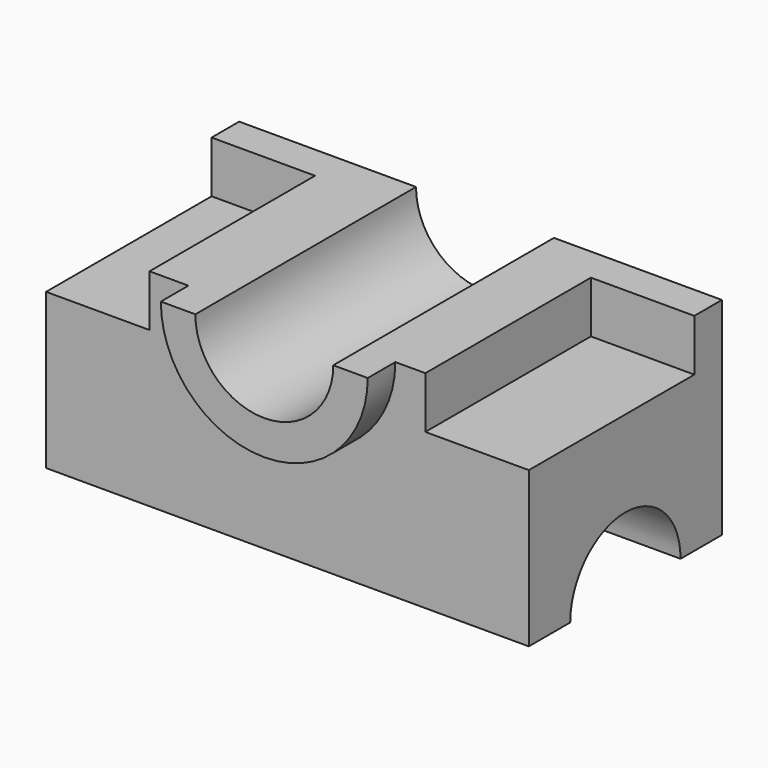
from build123d import *

# Parameters (mm, degrees)
F0_W      = 140
F0_H      = 70
F1_DEPTH  = 60
F3_DEPTH  = 140
F5_DEPTH  = 70
F6_DEPTH  = 10
F7_W      = 30
F7_H      = 60
F8_DEPTH  = 15
F9_W      = 30
F9_H      = 60
F10_DEPTH = 15


with BuildPart() as f1:
    # F0 (on Top) → F1 (new body)
    with BuildSketch(Plane.XY):
        with Locations((-1.2832614383, 11.7256036028)):
            Rectangle(F0_W, F0_H)
    extrude(amount=F1_DEPTH)

    # F2 (on face) → F3 (cut)
    with BuildSketch(Plane.YZ.offset(68.7167385617)):
        with BuildLine():
            Line((-8.2743963972, 0), (31.7256036028, 0))
            ThreePointArc((31.7256036028, 0), (11.7256036028, 20), (-8.2743963972, 0))
        make_face()
    extrude(amount=-F3_DEPTH, mode=Mode.SUBTRACT)

    # F4 (on face) → F5 (cut)
    with BuildSketch(Plane.XZ.offset(23.2743963972)):
        with BuildLine():
            ThreePointArc((-20, 60), (0, 40), (20, 60))
            Line((20, 60), (-20, 60))
        make_face()
    extrude(amount=-F5_DEPTH, mode=Mode.SUBTRACT)

    # F4 (on face) → F6 (join)
    with BuildSketch(Plane.XZ.offset(23.2743963972)):
        with BuildLine():
            Line((30, 60), (20, 60))
            ThreePointArc((20, 60), (0, 40), (-20, 60))
            Line((-20, 60), (-30, 60))
            ThreePointArc((-30, 60), (0, 30), (30, 60))
        make_face()
    extrude(amount=F6_DEPTH)

    # F7 (on face) → F8 (cut)
    with BuildSketch(Plane.XY.offset(60)):
        with Locations((-56.2832614383, 6.7256036028)):
            Rectangle(F7_W, F7_H)
    extrude(amount=-F8_DEPTH, mode=Mode.SUBTRACT)

    # F9 (on face) → F10 (cut)
    with BuildSketch(Plane.XY.offset(60)):
        with Locations((53.7167385617, 6.7256036028)):
            Rectangle(F9_W, F9_H)
    extrude(amount=-F10_DEPTH, mode=Mode.SUBTRACT)


solid = f1.part
